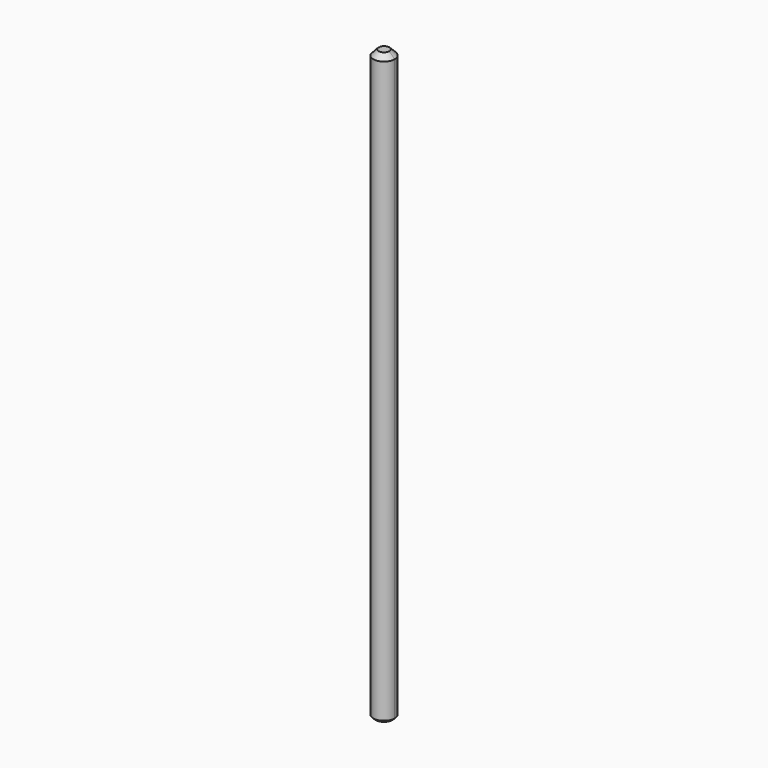
from build123d import *

# Parameters (mm, degrees)
F1_DEPTH = 27.5
F2_SIZE  = 0.5
F3_SIZE  = 0.2


with BuildPart() as f1:
    # F0 (on Top) → F1 (new body, symmetric)
    with BuildSketch(Plane.XY):
        with BuildLine():
            ThreePointArc((-0.878281, -0.478145), (0.246697, -0.969093), (1, 0))
            ThreePointArc((1, 0), (0.246697, 0.969093), (-0.878281, 0.478145))
            Line((-0.878281, 0.478145), (-0.470847, 0.070711))
            ThreePointArc((-0.470847, 0.070711), (-0.441557, 0), (-0.470847, -0.070711))
            Line((-0.470847, -0.070711), (-0.878281, -0.478145))
        make_face()
    extrude(amount=F1_DEPTH, both=True)

    # F2
    f2_edges = [f1.edges().sort_by_distance(p)[0] for p in [
        (0.246697, 0.969093, 27.5),
        (0.246697, -0.969093, 27.5),
    ]]
    chamfer(f2_edges, length=F2_SIZE)

    # F3
    f3_edges = [f1.edges().sort_by_distance(p)[0] for p in [
        (0.246697, -0.969093, -27.5),
        (0.246697, 0.969093, -27.5),
    ]]
    chamfer(f3_edges, length=F3_SIZE)


solid = f1.part
